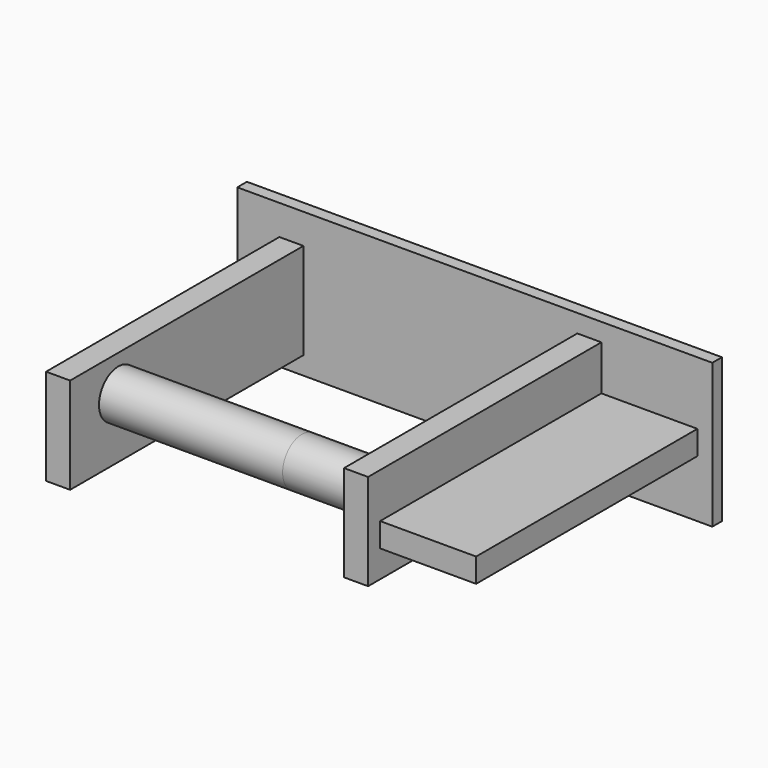
from build123d import *

# Parameters (mm, degrees)
F0_W          = 250.825
F0_H          = 76.2
F0_W_2        = 12.7
F0_H_2        = 50.8
F1_DEPTH      = 6.35
F2_DEPTH      = 160.3375
F3_W          = 12.7
F3_H          = 50.8
F4_DEPTH      = 160.3375
F5_W          = 50.8
F5_H          = 12.7
F6_DEPTH      = 152.4
F7_R          = 12.7
F8_DEPTH      = 55.626
F8_DEPTH_BACK = 97.028


with BuildPart() as f1:
    # F0 (on Front) → F1 (new body)
    with BuildSketch(Plane.XZ):
        with Locations((-6.46369, -22.225)):
            Rectangle(F0_W, F0_H)
        with Locations((-103.30119, -25.4)):
            Rectangle(F0_W_2, F0_H_2, mode=Mode.SUBTRACT)
    extrude(amount=F1_DEPTH)

    # F0 (on Front) → F2 (join)
    with BuildSketch(Plane.XZ):
        with Locations((-103.30119, -25.4)):
            Rectangle(F0_W_2, F0_H_2)
    extrude(amount=F2_DEPTH)

    # F3 (on Front) → F4 (join)
    with BuildSketch(Plane.XZ):
        with Locations((54.02811, -19.05)):
            Rectangle(F3_W, F3_H)
    extrude(amount=F4_DEPTH)

    # F5 (on Front) → F6 (join)
    with BuildSketch(Plane.XZ):
        with Locations((85.67481, -23.736117)):
            Rectangle(F5_W, F5_H)
    extrude(amount=F6_DEPTH)

    # F7 (on Right) → F8 (join, two sides)
    with BuildSketch(Plane.YZ) as f8_sk:
        with Locations((-128.5875, -19.05)):
            Circle(F7_R)
    extrude(amount=F8_DEPTH)
    extrude(f8_sk.sketch, amount=-F8_DEPTH_BACK)


solid = f1.part
